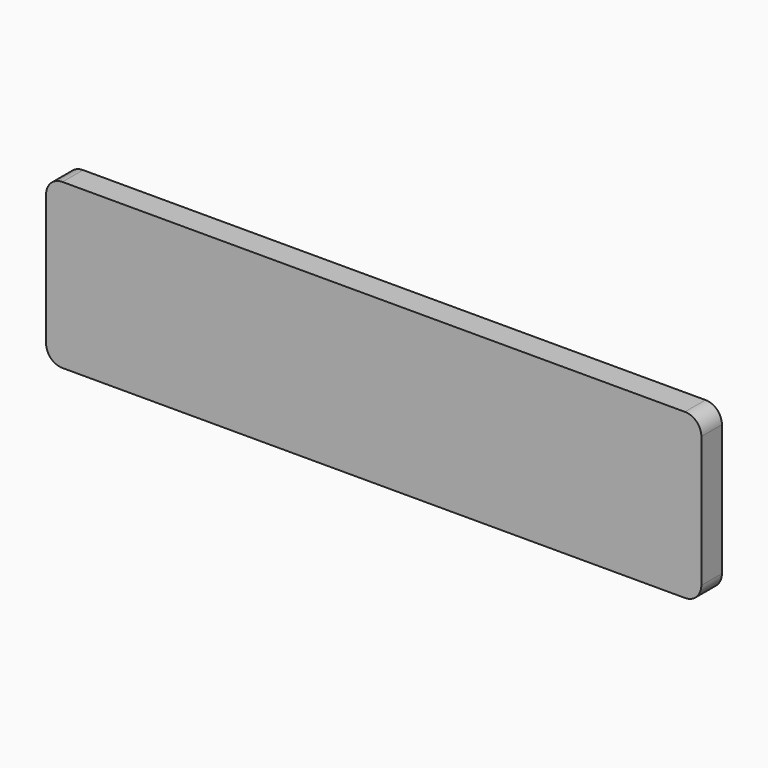
from build123d import *

# Parameters (mm, degrees)
F0_W          = 101.6
F0_H          = 25.4
F1_DEPTH      = 3.9878
F2_R          = 2.54
F3_R          = 2.54
F4_R          = 2.54
F5_R          = 2.54
F6_R          = 1.5875
F7_DEPTH      = 8.721469
F7_DEPTH_BACK = 3.175


with BuildPart() as f1:
    # F0 (on Front) → F1 (new body)
    with BuildSketch(Plane.XZ):
        with Locations((1.504738, 21.421469)):
            Rectangle(F0_W, F0_H)
    extrude(amount=F1_DEPTH)

    # F2
    f2_edges = [f1.edges().sort_by_distance(p)[0] for p in [
        (-49.295262, -1.9939, 8.721469),
    ]]
    fillet(f2_edges, radius=F2_R)

    # F3
    f3_edges = [f1.edges().sort_by_distance(p)[0] for p in [
        (52.304738, -1.9939, 8.721469),
    ]]
    fillet(f3_edges, radius=F3_R)

    # F4
    f4_edges = [f1.edges().sort_by_distance(p)[0] for p in [
        (52.304738, -1.9939, 34.121469),
    ]]
    fillet(f4_edges, radius=F4_R)

    # F5
    f5_edges = [f1.edges().sort_by_distance(p)[0] for p in [
        (-49.295262, -1.9939, 34.121469),
    ]]
    fillet(f5_edges, radius=F5_R)

    # F6 (on Top) → F7 (cut, two sides)
    with BuildSketch(Plane.XY) as f7_sk:
        with Locations((-44.215262, -1.9939)):
            Circle(F6_R)
        with Locations((47.224738, -1.9939)):
            Circle(F6_R)
    extrude(amount=F7_DEPTH, mode=Mode.SUBTRACT)
    extrude(f7_sk.sketch, amount=-F7_DEPTH_BACK, mode=Mode.SUBTRACT)


solid = f1.part
